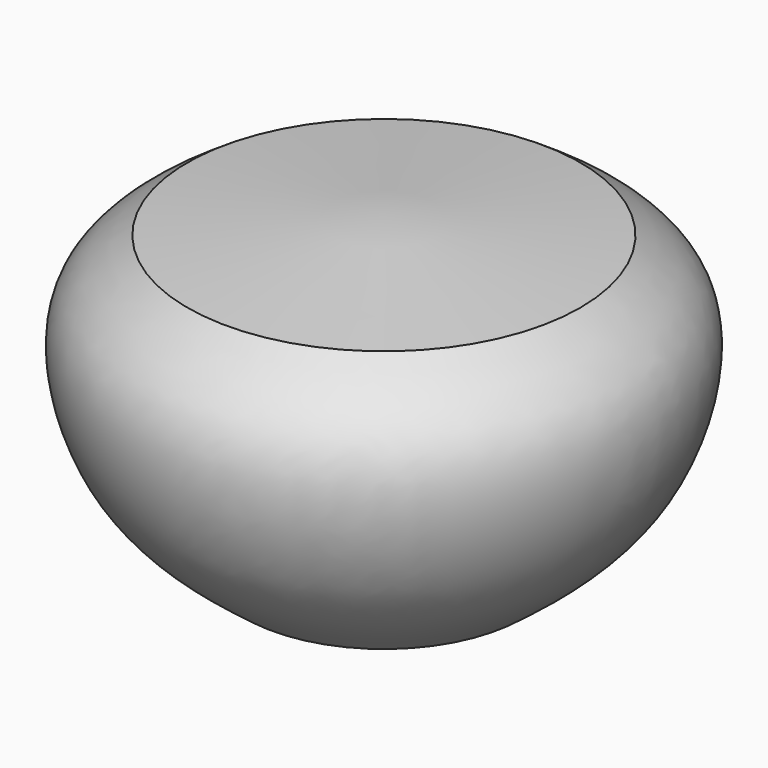
from build123d import *


with BuildPart() as f1:
    # F0 (on Front) → F1 (revolve)
    with BuildSketch(Plane.XZ):
        with BuildLine():
            Line((0, 43.340831995), (0, 0))
            Line((0, 0), (19.5458643138, 0))
            add(Edge.make_bspline(
                [(19.5458643138, 0), (24.5235159111, 3.7946827273), (34.4649589121, 11.3734819467), (39.3758178513, 32.9122999431), (31.1749126586, 38.3429476065), (27.477517724, 40.7913662493)],
                knots=[0, 0, 0, 0, 0.3551221695, 0.7092555068, 1, 1, 1, 1], degree=3))
            Line((27.477517724, 40.7913662493), (0, 43.340831995))
        make_face()
    revolve(axis=Axis((0, 0, 21.6704159975), (0, 0, 1)))


solid = f1.part
